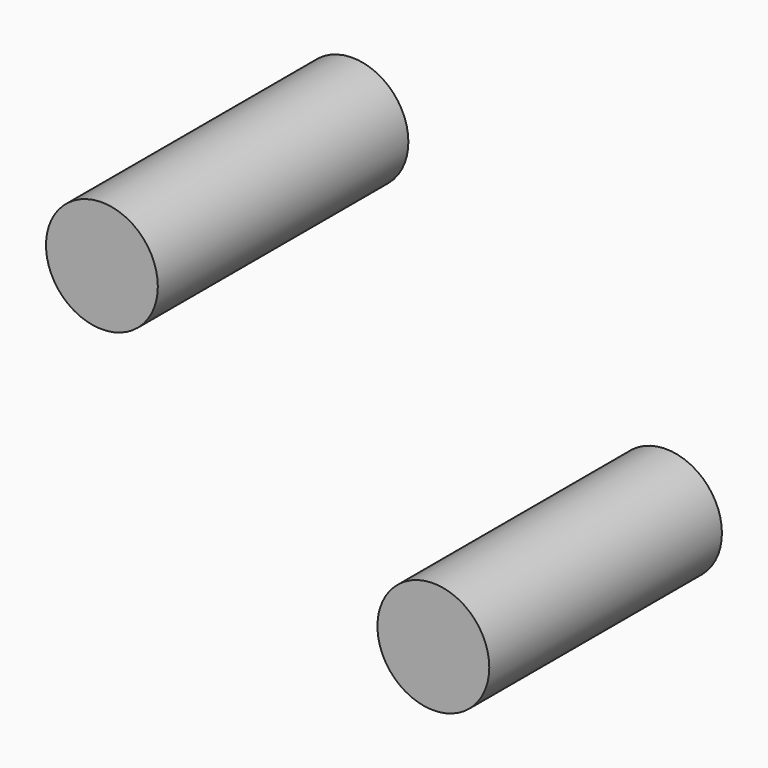
from build123d import *

# Parameters (mm, degrees)
F0_R     = 6.35
F1_DEPTH = 33.02
F2_R     = 6.35
F3_DEPTH = 2.54


with BuildPart() as f1:
    # F0 (on Front) → F1 (new body)
    with BuildSketch(Plane.XZ):
        Circle(F0_R)
        with Locations((-35.601206, 27.535306)):
            Circle(F0_R)
    extrude(amount=F1_DEPTH)

    # F2 (on face) → F3 (join)
    with BuildSketch(Plane.XZ.offset(33.02)):
        with Locations((-35.601206, 27.535306)):
            Circle(F2_R)
    extrude(amount=F3_DEPTH)


solid = f1.part
